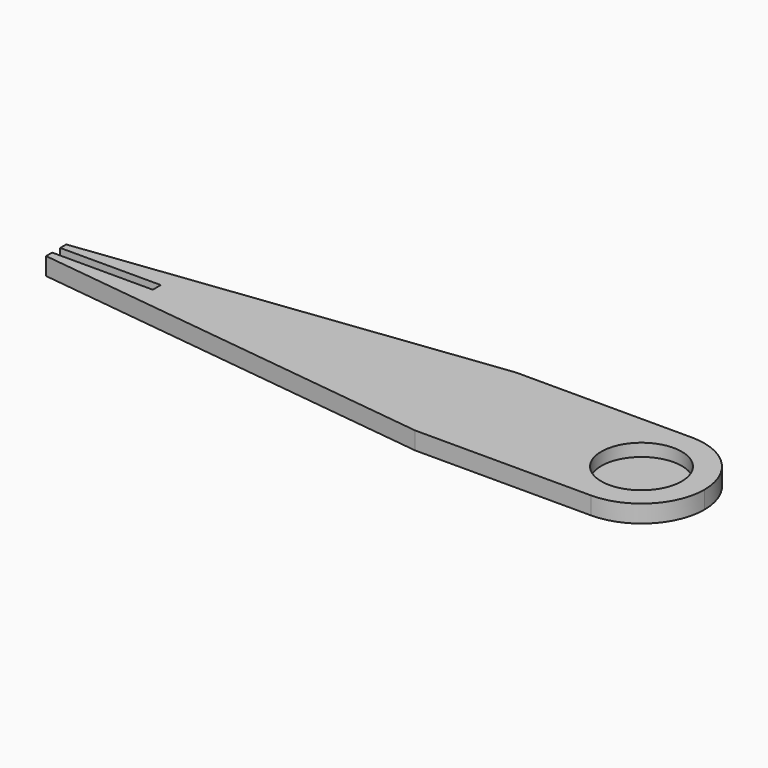
from build123d import *

# Parameters (mm, degrees)
F0_R     = 8
F1_DEPTH = 3.5
F2_DEPTH = 1
F3_W     = 20
F3_H     = 2
F4_DEPTH = 2


with BuildPart() as f1:
    # F0 (on Top) → F1 (new body)
    with BuildSketch(Plane.XY):
        with BuildLine():
            ThreePointArc((0, -12.5), (8.838835, -8.838835), (12.5, 0))
            ThreePointArc((12.5, 0), (8.838835, 8.838835), (0, 12.5))
            ThreePointArc((0, 12.5), (-12.5, 0), (0, -12.5))
        make_face()
        Circle(F0_R, mode=Mode.SUBTRACT)
        with BuildLine():
            ThreePointArc((0, -12.5), (-12.5, 0), (0, 12.5))
            Line((0, 12.5), (-35, 12.5))
            Line((-35, 12.5), (-116.388784, 2.506714))
            Line((-116.388784, 2.506714), (-116.388784, -2.506714))
            Line((-116.388784, -2.506714), (-35, -12.5))
            Line((-35, -12.5), (0, -12.5))
        make_face()
    extrude(amount=F1_DEPTH)

    # F0 (on Top) → F2 (join)
    with BuildSketch(Plane.XY):
        Circle(F0_R)
    extrude(amount=F2_DEPTH)

    # F3 (on face) → F4 (cut)
    with BuildSketch(Plane.XY.offset(3.5)):
        with Locations((-106.388784, 0.006714)):
            Rectangle(F3_W, F3_H)
    extrude(amount=-F4_DEPTH, mode=Mode.SUBTRACT)


solid = f1.part
